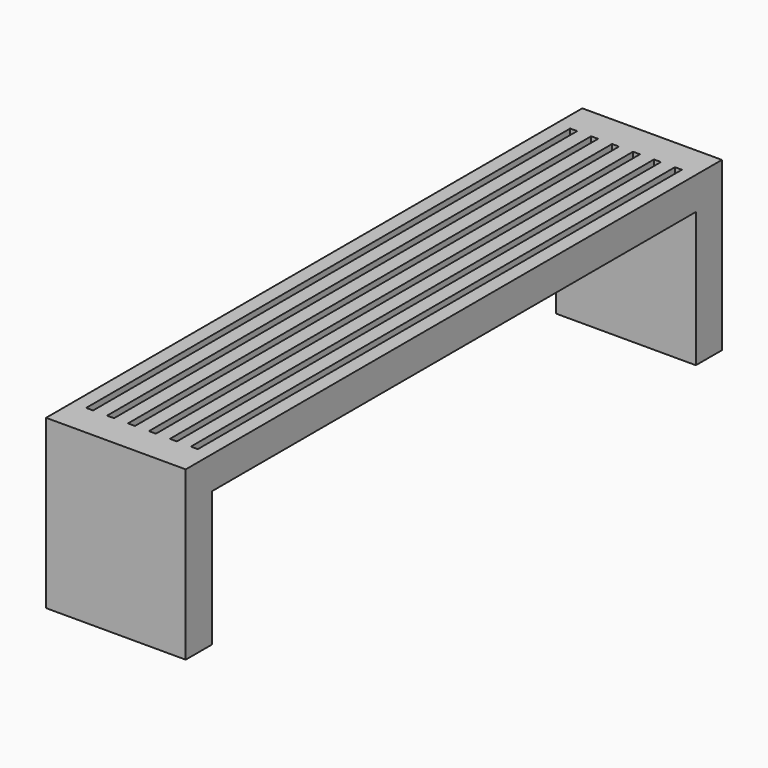
from build123d import *

# Parameters (mm, degrees)
F0_W     = 88.9
F0_H     = 88.9
F0_H_2   = 368.3
F0_W_2   = 1651
F1_DEPTH = 190.5
F2_W     = 19.05
F2_H     = 1651
F3_DEPTH = 101.6


with BuildPart() as f1:
    # F0 (on Right) → F1 (new body, symmetric)
    with BuildSketch(Plane.YZ):
        with Locations((-869.95, 412.75)):
            Rectangle(F0_W, F0_H)
        with Locations((-869.95, 184.15)):
            Rectangle(F0_W, F0_H_2)
        with Locations((0, 412.75)):
            Rectangle(F0_W_2, F0_H)
        with Locations((869.95, 412.75)):
            Rectangle(F0_W, F0_H)
        with Locations((869.95, 184.15)):
            Rectangle(F0_W, F0_H_2)
    extrude(amount=F1_DEPTH, both=True)

    # F2 (on face) → F3 (cut)
    with BuildSketch(Plane.XY.offset(457.2)):
        with Locations((-85.725, 0)):
            Rectangle(F2_W, F2_H)
        with Locations((-28.575, 0)):
            Rectangle(F2_W, F2_H)
        with Locations((28.575, 0)):
            Rectangle(F2_W, F2_H)
        with Locations((85.725, 0)):
            Rectangle(F2_W, F2_H)
        with Locations((142.875, 0)):
            Rectangle(F2_W, F2_H)
        with Locations((-142.875, 0)):
            Rectangle(F2_W, F2_H)
    extrude(amount=-F3_DEPTH, mode=Mode.SUBTRACT)


solid = f1.part
